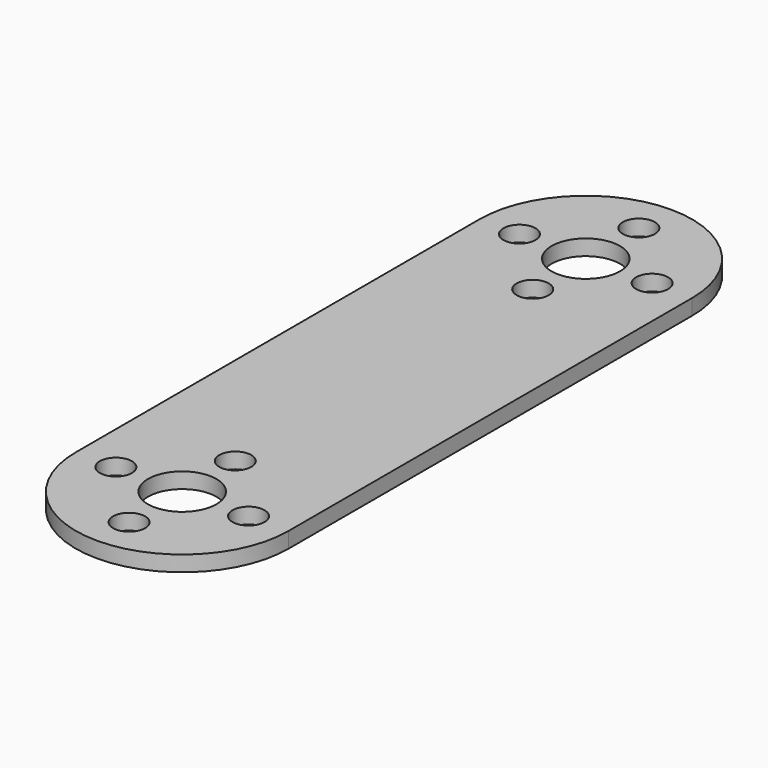
from build123d import *

# Parameters (mm, degrees)
F0_R     = 2.032
F0_R_2   = 4.337432
F1_DEPTH = 1.9812


with BuildPart() as f1:
    # F0 (on Top) → F1 (new body)
    with BuildSketch(Plane.XY):
        with BuildLine():
            Line((13.4874, -36.963834), (13.4874, 26.967966))
            ThreePointArc((13.4874, 26.967966), (0, 40.455366), (-13.4874, 26.967966))
            Line((-13.4874, 26.967966), (-13.4874, -36.963834))
            ThreePointArc((-13.4874, -36.963834), (0, -50.451234), (13.4874, -36.963834))
        make_face()
        with Locations((-8.4074, -36.963834)):
            Circle(F0_R, mode=Mode.SUBTRACT)
        with Locations((0, -45.371234)):
            Circle(F0_R, mode=Mode.SUBTRACT)
        with Locations((0, -36.963834)):
            Circle(F0_R_2, mode=Mode.SUBTRACT)
        with Locations((0, -28.556434)):
            Circle(F0_R, mode=Mode.SUBTRACT)
        with Locations((8.4074, -36.963834)):
            Circle(F0_R, mode=Mode.SUBTRACT)
        with Locations((-8.4074, 26.967966)):
            Circle(F0_R, mode=Mode.SUBTRACT)
        with Locations((0, 18.560566)):
            Circle(F0_R, mode=Mode.SUBTRACT)
        with Locations((0, 26.967966)):
            Circle(F0_R_2, mode=Mode.SUBTRACT)
        with Locations((0, 35.375366)):
            Circle(F0_R, mode=Mode.SUBTRACT)
        with Locations((8.4074, 26.967966)):
            Circle(F0_R, mode=Mode.SUBTRACT)
        with BuildLine():
            Line((13.4874, -36.963834), (13.4874, 26.967966))
            ThreePointArc((13.4874, 26.967966), (0, 40.455366), (-13.4874, 26.967966))
            Line((-13.4874, 26.967966), (-13.4874, -36.963834))
            ThreePointArc((-13.4874, -36.963834), (0, -50.451234), (13.4874, -36.963834))
        make_face()
        with Locations((-8.4074, -36.963834)):
            Circle(F0_R, mode=Mode.SUBTRACT)
        with Locations((0, -45.371234)):
            Circle(F0_R, mode=Mode.SUBTRACT)
        with Locations((0, -36.963834)):
            Circle(F0_R_2, mode=Mode.SUBTRACT)
        with Locations((0, -28.556434)):
            Circle(F0_R, mode=Mode.SUBTRACT)
        with Locations((8.4074, -36.963834)):
            Circle(F0_R, mode=Mode.SUBTRACT)
        with Locations((-8.4074, 26.967966)):
            Circle(F0_R, mode=Mode.SUBTRACT)
        with Locations((0, 18.560566)):
            Circle(F0_R, mode=Mode.SUBTRACT)
        with Locations((0, 26.967966)):
            Circle(F0_R_2, mode=Mode.SUBTRACT)
        with Locations((0, 35.375366)):
            Circle(F0_R, mode=Mode.SUBTRACT)
        with Locations((8.4074, 26.967966)):
            Circle(F0_R, mode=Mode.SUBTRACT)
    extrude(amount=F1_DEPTH)


solid = f1.part
